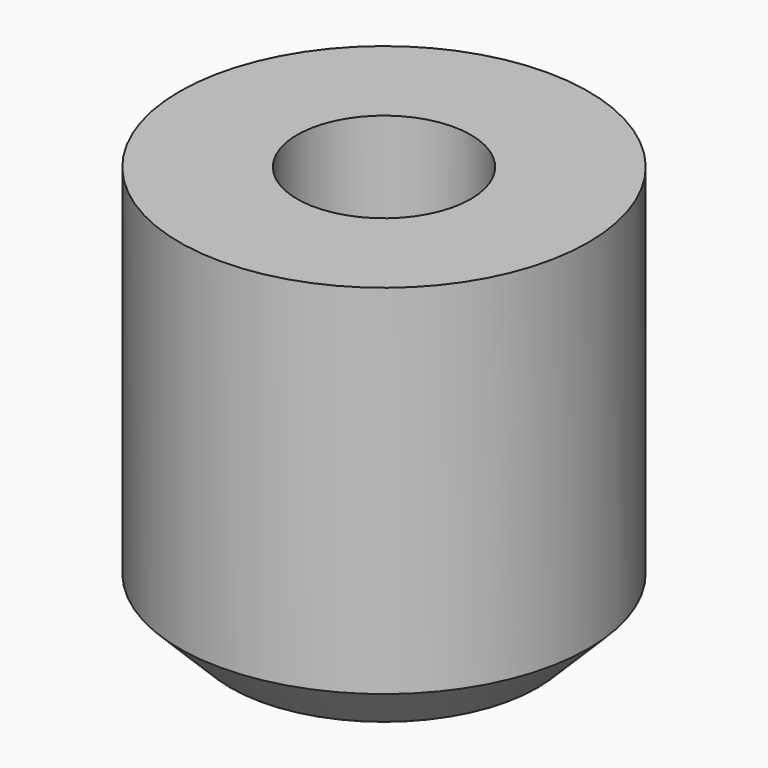
from build123d import *

# Parameters (mm, degrees)
CYLINDER013_R     = 1.7
CYLINDER013_DEPTH = 8
CYLINDER012_R     = 4
CYLINDER012_DEPTH = 8
CHAMFER007_SIZE   = 1


with BuildPart() as cylinder013:
    # Cylinder013 → Cylinder013 (new body)
    with BuildSketch(Plane(origin=(11.5, -2.9, 4.6), x_dir=(1, 0, 0), z_dir=(0, 0, 1))):
        Circle(CYLINDER013_R)
    extrude(amount=CYLINDER013_DEPTH)


with BuildPart() as cut003:
    # Cylinder012 → Cylinder012 (new body)
    with BuildSketch(Plane(origin=(11.5, -2.9, 4.6), x_dir=(1, 0, 0), z_dir=(0, 0, 1))):
        Circle(CYLINDER012_R)
    extrude(amount=CYLINDER012_DEPTH)

    # Chamfer007
    chamfer007_edges = [cut003.edges().sort_by_distance(p)[0] for p in [
        (7.5, -2.9, 4.6),
    ]]
    chamfer(chamfer007_edges, length=CHAMFER007_SIZE)

    # Cut003: cut Cylinder013
    add(cylinder013.part, mode=Mode.SUBTRACT)


solid = cut003.part
